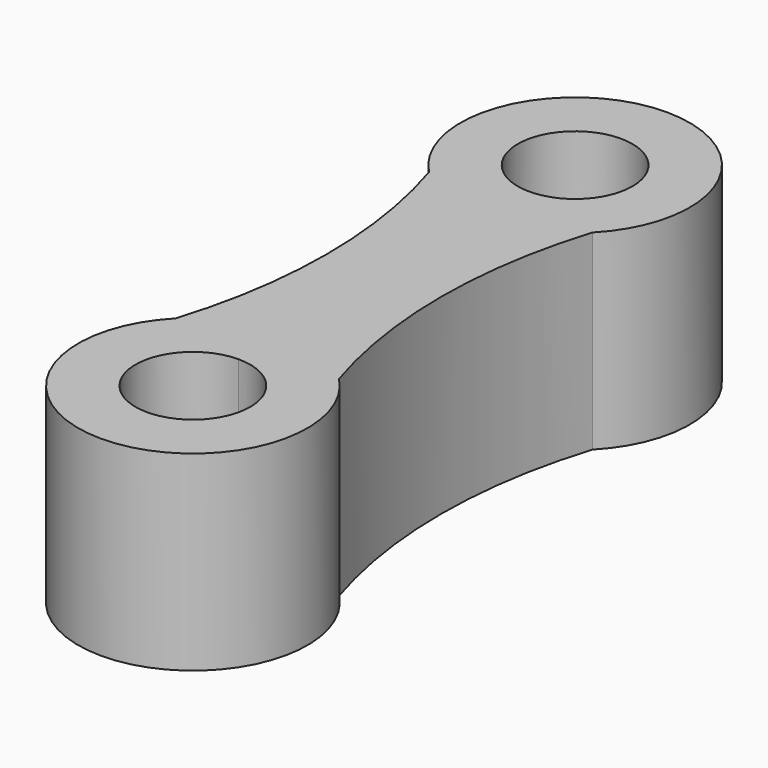
from build123d import *

# Parameters (mm, degrees)
F0_R     = 6
F1_DEPTH = 20


with BuildPart() as f1:
    # F0 (on Top) → F1 (new body)
    with BuildSketch(Plane.XY):
        with BuildLine():
            ThreePointArc((0, 6), (-4.242641, -4.242641), (6, 0))
            ThreePointArc((6, 0), (4.242641, 4.242641), (0, 6))
        make_face()
        with BuildLine():
            ThreePointArc((8.556611, 8.413347), (6, 25), (8.556611, 41.586653))
            ThreePointArc((8.556611, 41.586653), (0, 62), (-8.556611, 41.586653))
            ThreePointArc((-8.556611, 41.586653), (-6, 25), (-8.556611, 8.413347))
            ThreePointArc((-8.556611, 8.413347), (0, -12), (8.556611, 8.413347))
        make_face()
        with BuildLine():
            ThreePointArc((0, 6), (4.242641, 4.242641), (6, 0))
            ThreePointArc((6, 0), (-4.242641, -4.242641), (0, 6))
        make_face(mode=Mode.SUBTRACT)
        with Locations((0, 50)):
            Circle(F0_R, mode=Mode.SUBTRACT)
    extrude(amount=F1_DEPTH)


solid = f1.part
